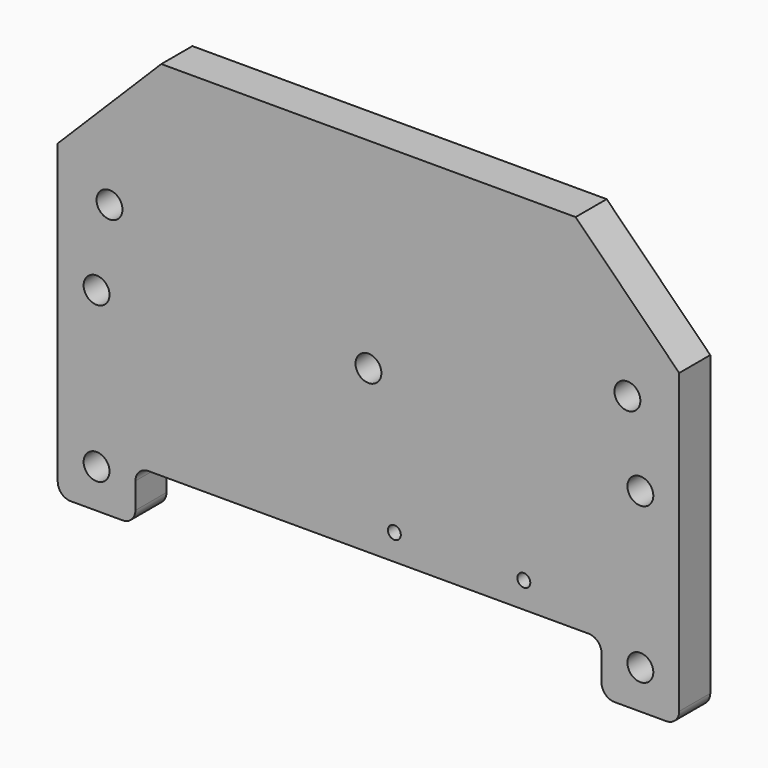
from build123d import *

# Parameters (mm, degrees)
F0_W     = 304.8
F0_H     = 203.2
F1_DEPTH = 19.05
F2_SIZE  = 50.8
F3_W     = 228.6
F3_H     = 25.4
F4_DEPTH = 19.05
F5_R     = 6.35
F7_D     = 6.35
F8_D     = 12.7
F8_DEPTH = 12.7
F8_TIP   = 3.8154649308
F9_D     = 9.525
F10_D    = 12.7


with BuildPart() as f1:
    # F0 (on Front) → F1 (new body)
    with BuildSketch(Plane.XZ):
        with Locations((22.3837513477, 30.5710117506)):
            Rectangle(F0_W, F0_H)
    extrude(amount=F1_DEPTH)

    # F2
    f2_edges = [f1.edges().sort_by_distance(p)[0] for p in [
        (-130.016249, -9.525, 132.171012),
        (174.783751, -9.525, 132.171012),
    ]]
    chamfer(f2_edges, length=F2_SIZE)

    # F3 (on face) → F4 (cut)
    with BuildSketch(Plane.XZ.offset(19.05)):
        with Locations((22.3837513477, -58.3289882494)):
            Rectangle(F3_W, F3_H)
    extrude(amount=-F4_DEPTH, mode=Mode.SUBTRACT)

    # F5
    f5_edges = [f1.edges().sort_by_distance(p)[0] for p in [
        (-130.016249, -9.525, -71.028988),
        (-91.916249, -9.525, -71.028988),
        (-91.916249, -9.525, -45.628988),
        (136.683751, -9.525, -71.028988),
        (174.783751, -9.525, -71.028988),
        (136.683751, -9.525, -45.628988),
    ]]
    fillet(f5_edges, radius=F5_R)

    # F7 (through all)
    with Locations(Plane.XZ.offset(19.05)):
        with Locations((98.5837513477, -32.9289882494), (35.0837513477, -32.9289882494)):
            Hole(F7_D / 2)

    # F8
    with Locations(Plane.XZ.offset(19.05)):
        with Locations((-104.6162486523, 63.1592117506), (149.3837513477, 63.1592117506), (-110.9662486523, 24.2210117506), (155.7337513477, 24.2210117506), (155.7337513477, -51.9789882494), (-110.9662486523, -51.9789882494)):
            Hole(F8_D / 2, depth=F8_DEPTH)
            with Locations((0, 0, -(F8_DEPTH + F8_TIP / 2))):  # 118° drill point
                Cone(0, F8_D / 2, F8_TIP, mode=Mode.SUBTRACT)

    # F9 (through all)
    with Locations(Plane.XZ.offset(19.05)):
        with Locations((-110.9662486523, 24.2210117506), (155.7337513477, 24.2210117506), (155.7337513477, -51.9789882494), (-110.9662486523, -51.9789882494)):
            Hole(F9_D / 2)

    # F10 (through all)
    with Locations(Plane.XZ.offset(19.05)):
        with Locations((22.3837513477, 33.8222117506)):
            Hole(F10_D / 2)


solid = f1.part
